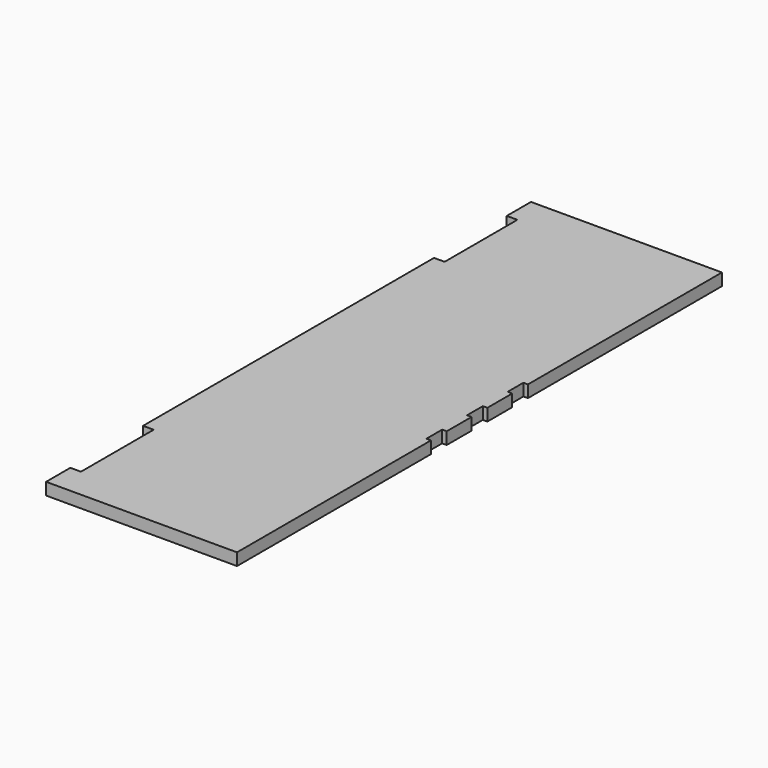
from build123d import *

# Parameters (mm, degrees)
F1_DEPTH = 4


with BuildPart() as f1:
    # F0 (on Top) → F1 (new body)
    with BuildSketch(Plane.XY):
        Polygon((-5, 120), (-5, 200), (-68, 200), (-68, 190), (-64.5, 190), (-64.5, 160), (-68, 160), (-68, 40), (-64.5, 40), (-64.5, 10), (-68, 10), (-68, 0), (-5, 0), (-5, 80), (-6.5, 80), (-6.5, 86.5), (-5, 86.5), (-5, 96.75), (-6.5, 96.75), (-6.5, 103.25), (-5, 103.25), (-5, 113.5), (-6.5, 113.5), (-6.5, 120), align=None)
    extrude(amount=F1_DEPTH)


solid = f1.part
